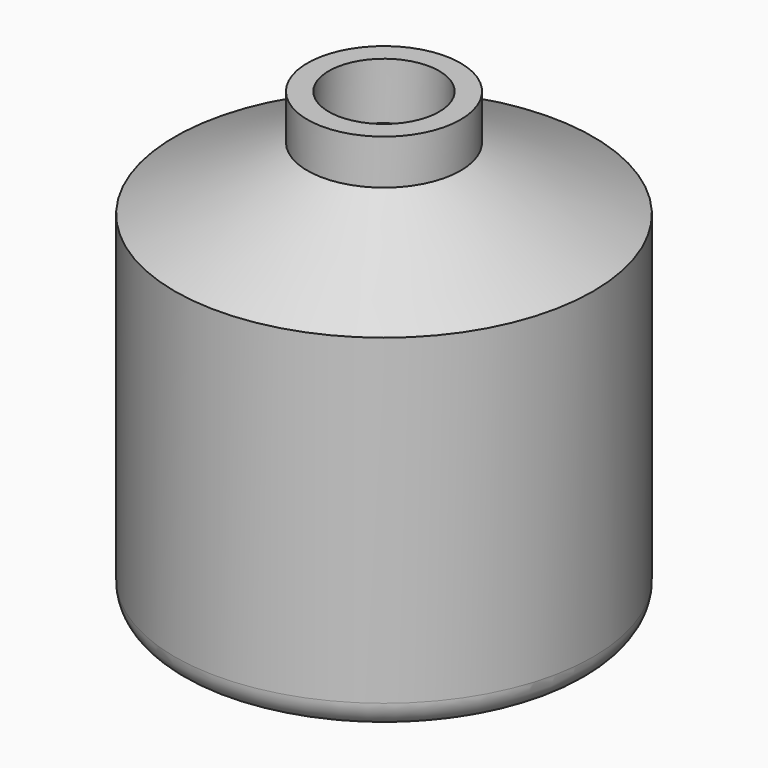
from build123d import *


with BuildPart() as f1:
    # F0 (on Front) → F1 (revolve)
    with BuildSketch(Plane.XZ):
        with BuildLine():
            Line((0, 2.203822), (0, 0))
            Line((0, 0), (14.114344, 0))
            Line((14.114344, 0), (22.420958, -3.83735))
            Line((22.420958, -3.83735), (25.736834, -3.83735))
            ThreePointArc((25.736834, -3.83735), (28.430911, -2.721426), (29.546834, -0.02735))
            Line((29.546834, -0.02735), (29.546834, 45.425702))
            Line((29.546834, 45.425702), (10.819199, 54.336432))
            Line((10.819199, 54.336432), (10.819199, 60.679659))
            Line((10.819199, 60.679659), (7.798612, 60.679659))
            Line((7.798612, 60.679659), (7.798612, 52.675109))
            Line((7.798612, 52.675109), (26.677277, 43.31129))
            Line((26.677277, 43.31129), (26.677277, 2.540149))
            ThreePointArc((26.677277, 2.540149), (25.561354, -0.153928), (22.867277, -1.269851))
            Line((22.867277, -1.269851), (22.118898, -1.269851))
            Line((22.118898, -1.269851), (15.775668, 2.203822))
            Line((15.775668, 2.203822), (0, 2.203822))
        make_face()
    revolve(axis=Axis((0, 0, 30.669179), (0, 0, 1)))


solid = f1.part
